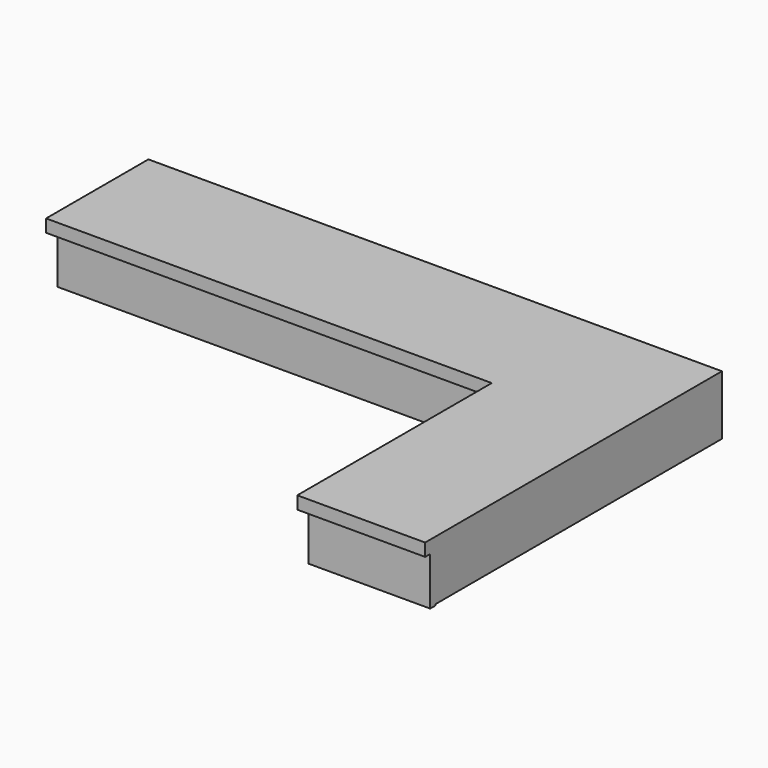
from build123d import *

# Parameters (mm, degrees)
F4_DEPTH = 152.4
F1_DEPTH = 31.75
F3_DEPTH = 3.175


with BuildPart() as f4:
    # F0 (on Top) → F4 (new body)
    with BuildSketch(Plane.XY):
        Polygon((0, 0), (-1422.4, 0), (-1422.4, -304.8), (-304.8, -304.8), (-304.8, -914.4), (0, -914.4), align=None)
    extrude(amount=-F4_DEPTH)

    # F5 (on face) → F1 (join)
    with BuildSketch(Plane.XY):
        Polygon((0, -930.275), (0, 0), (-1438.275, 0), (-1438.275, -320.675), (-320.675, -320.675), (-320.675, -930.275), align=None)
    extrude(amount=-F1_DEPTH)

    # F2 (on face) → F3 (cut)
    with BuildSketch(Plane(origin=(0, 0, -152.4), x_dir=(1, 0, 0), z_dir=(0, 0, -1))):
        Polygon((-288.925, 288.925), (-1406.525, 288.925), (-1406.525, 15.875), (-1406.525, 0), (0, 0), (0, 898.525), (-15.875, 898.525), (-288.925, 898.525), align=None)
    extrude(amount=-F3_DEPTH, mode=Mode.SUBTRACT)


solid = f4.part
